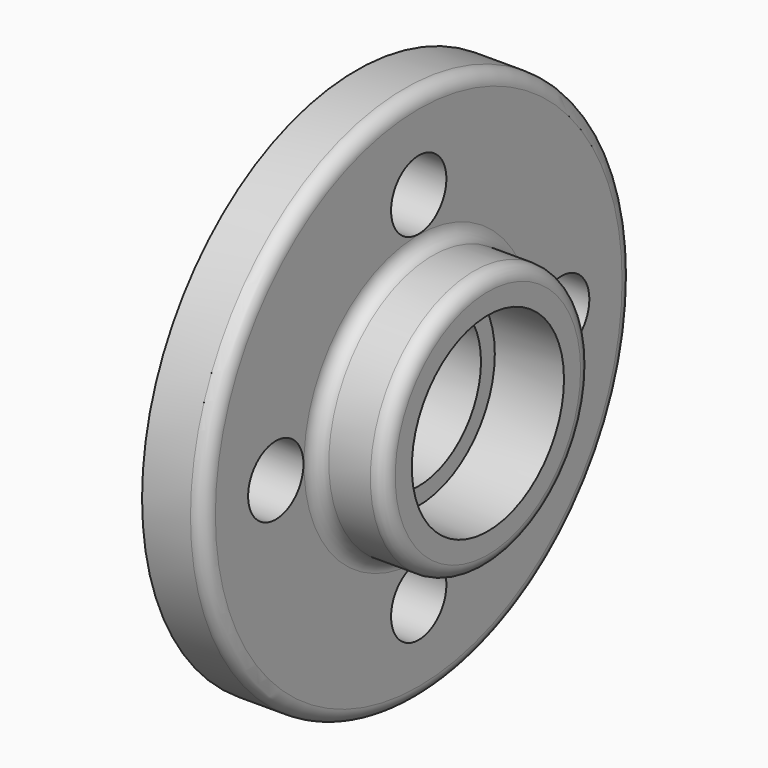
from build123d import *

# Parameters (mm, degrees)
F0_R     = 77.5
F0_R_2   = 22.5
F1_DEPTH = 18
F2_R     = 37.5
F2_R_2   = 27.5
F3_DEPTH = 20
F4_R     = 4
F7_R     = 10
F8_DEPTH = 25


with BuildPart() as f1:
    # F0 (on Right) → F1 (new body)
    with BuildSketch(Plane.YZ):
        Circle(F0_R)
        Circle(F0_R_2, mode=Mode.SUBTRACT)
    extrude(amount=F1_DEPTH)

    # F2 (on face) → F3 (join)
    with BuildSketch(Plane.YZ.offset(18)):
        Circle(F2_R)
        Circle(F2_R_2, mode=Mode.SUBTRACT)
    extrude(amount=F3_DEPTH)

    # F4
    f4_edges = [f1.edges().sort_by_distance(p)[0] for p in [
        (28, 37.5, 0),
        (18, -37.5, 0),
        (38, -37.5, 0),
        (18, -77.5, 0),
    ]]
    fillet(f4_edges, radius=F4_R)

    # F5 (on Front) → F6 (revolve)
    with BuildSketch(Plane.XZ):
        Polygon((-5.721824, -31.75), (0, -31.75), (0, -22), (-15, -22), (-15, -25), (-25, -26), (-25, -28), (-10, -30.354747), align=None)
    revolve(axis=Axis((-7.5, 0, 0), (-1, 0, 0)))

    # F7 (on Right) → F8 (cut)
    with BuildSketch(Plane.YZ):
        with Locations((0, 51.6636)):
            Circle(F7_R)
        with Locations((-51.6636, 0)):
            Circle(F7_R)
        with Locations((0, -51.6636)):
            Circle(F7_R)
        with Locations((51.6636, 0)):
            Circle(F7_R)
    extrude(amount=F8_DEPTH, mode=Mode.SUBTRACT)


solid = f1.part
